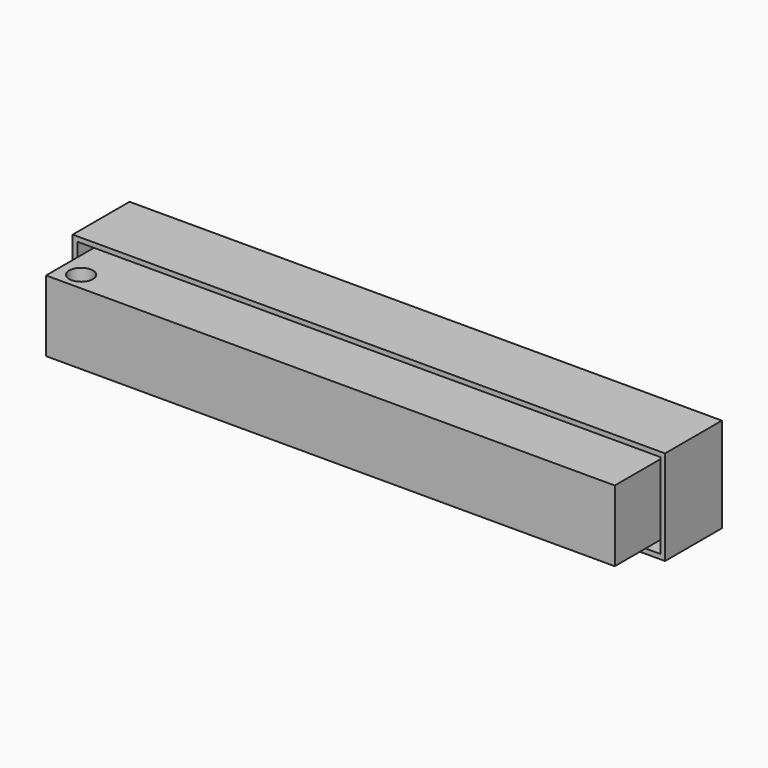
from build123d import *

# Parameters (mm, degrees)
F0_W     = 158.75
F0_H     = 25.4
F1_DEPTH = 19.05
F2_T     = -1.27
F3_W     = 152.4
F3_H     = 19.05
F4_DEPTH = 31.75
F5_R     = 3.175
F6_DEPTH = 25.4


with BuildPart() as f1:
    # F0 (on Front) → F1 (new body)
    with BuildSketch(Plane.XZ):
        Rectangle(F0_W, F0_H)
    extrude(amount=F1_DEPTH)

    # F2
    f2_openings = [f1.faces().sort_by_distance(p)[0] for p in [
        (0, -19.05, 0),
    ]]
    offset(amount=F2_T, openings=f2_openings)


with BuildPart() as f4:
    # F3 (on Front) → F4 (new body)
    with BuildSketch(Plane.XZ):
        with Locations((-0.141865, -0.30942)):
            Rectangle(F3_W, F3_H)
    extrude(amount=F4_DEPTH)

    # F5 (on face) → F6 (cut)
    with BuildSketch(Plane.XY.offset(9.21558)):
        with Locations((-70.804305, -26.935184)):
            Circle(F5_R)
    extrude(amount=-F6_DEPTH, mode=Mode.SUBTRACT)


solid = Compound([f1.part, f4.part])
